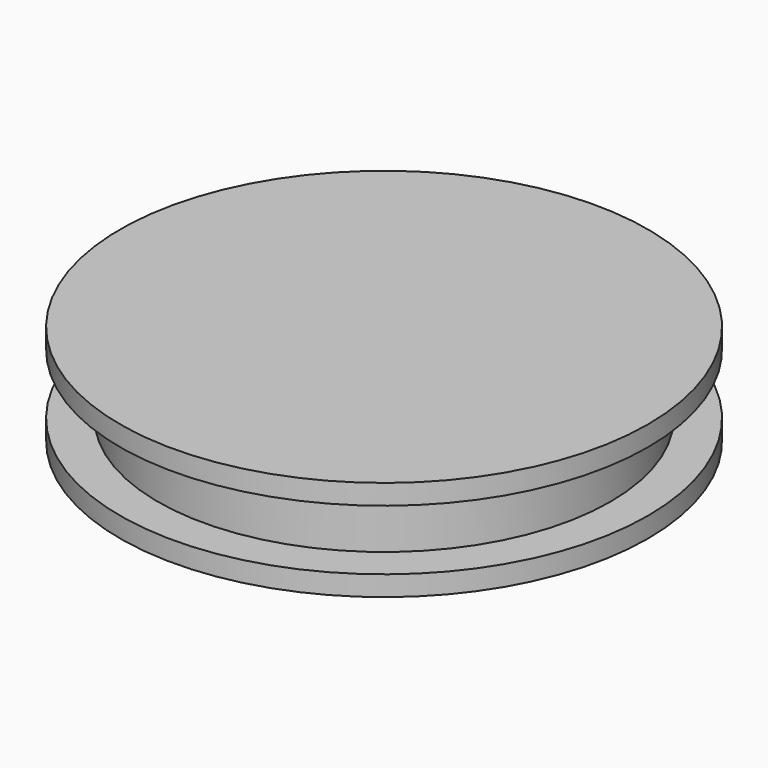
from build123d import *

# Parameters (mm, degrees)
F2_R     = 52.5
F3_DEPTH = 4
F5_R     = 45
F6_DEPTH = 12
F8_R     = 52.5
F9_DEPTH = 4


with BuildPart() as f3:
    # F2 (on Top) → F3 (new body)
    with BuildSketch(Plane.XY):
        Circle(F2_R)
    extrude(amount=F3_DEPTH)

    # F5 (on offset) → F6 (join)
    with BuildSketch(Plane.XY.offset(4)):
        Circle(F5_R)
    extrude(amount=F6_DEPTH)

    # F8 (on offset) → F9 (join)
    with BuildSketch(Plane.XY.offset(16)):
        Circle(F8_R)
    extrude(amount=F9_DEPTH)


with BuildPart() as f10_1:
    # F10: copy of F3
    add(f3.part.moved(Location((0, 0, 20))))


with BuildPart() as f12_1:
    # F12: copy of F3
    add(f3.part)


with BuildPart() as f3_1:
    # F14: moved
    add(f3.part.moved(Location((0, 0, 20))))


solid = f3_1.part
